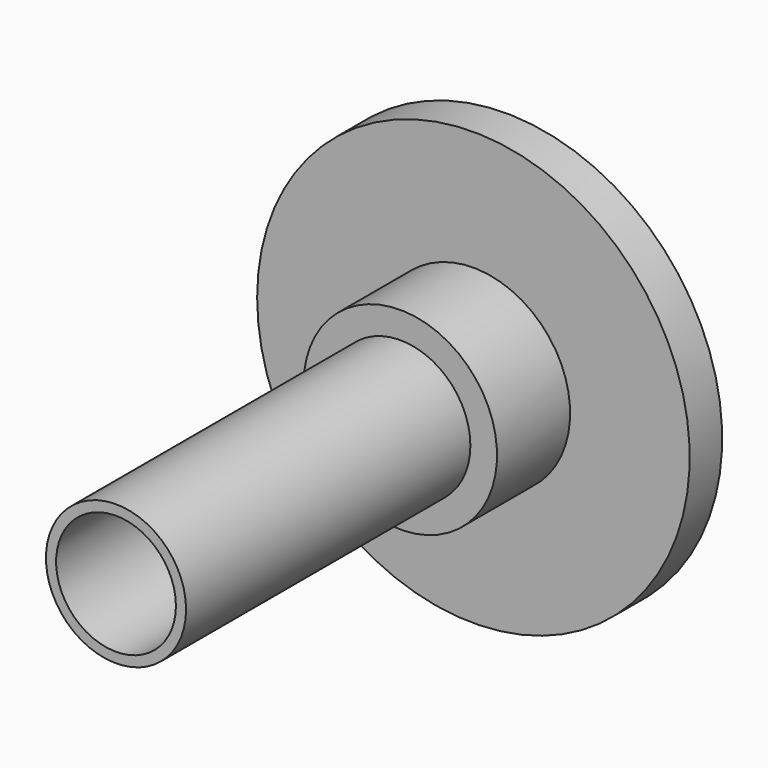
from build123d import *

# Parameters (mm, degrees)
F0_R      = 3.45
F1_DEPTH  = 17.5
F1_FACE_R = 3.45
F3_DEPTH  = 4.5
F2_R      = 4.7625
F2_R_2    = 3.45
F4_DEPTH  = 4.5
F5_R      = 10.65
F5_R_2    = 4.7625
F6_DEPTH  = 2
F7_R      = 2.95
F8_DEPTH  = 28


with BuildPart() as f1:
    # F0 (on Front) → F1 (new body)
    with BuildSketch(Plane.XZ):
        Circle(F0_R)
    extrude(amount=F1_DEPTH)

    # F1_face (on face) → F3 (join)
    with BuildSketch(Plane(origin=(0, 0, 0), x_dir=(1, 0, 0), z_dir=(0, 1, 0))):
        Circle(F1_FACE_R)
    extrude(amount=F3_DEPTH)

    # F2 (on face) → F4 (join)
    with BuildSketch(Plane(origin=(0, 0, 0), x_dir=(-1, 0, 0), z_dir=(0, 1, 0))):
        Circle(F2_R)
        Circle(F2_R_2, mode=Mode.SUBTRACT)
    extrude(amount=F4_DEPTH)

    # F5 (on face) → F6 (join)
    with BuildSketch(Plane(origin=(0, 4.5, 0), x_dir=(-1, 0, 0), z_dir=(0, 1, 0))):
        Circle(F5_R)
        Circle(F5_R_2, mode=Mode.SUBTRACT)
        Circle(F5_R_2)
    extrude(amount=F6_DEPTH)

    # F7 (on face) → F8 (cut)
    with BuildSketch(Plane.XZ.offset(17.5)):
        Circle(F7_R)
    extrude(amount=-F8_DEPTH, mode=Mode.SUBTRACT)


solid = f1.part
